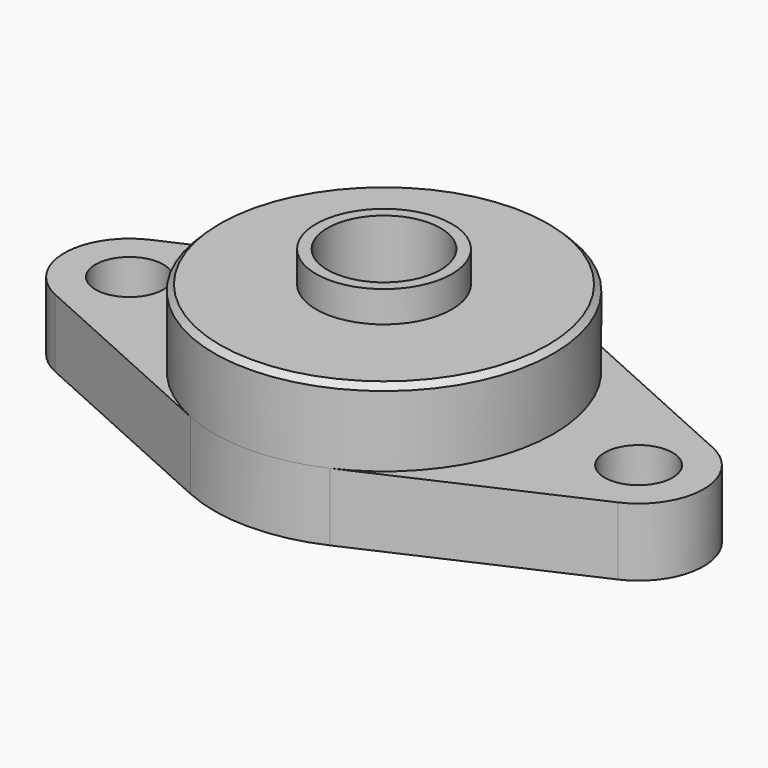
from build123d import *

# Parameters (mm, degrees)
F0_R     = 6
F0_R_2   = 10
F1_DEPTH = 6
F2_R     = 30
F2_R_2   = 10
F3_DEPTH = 13.5
F4_R     = 12
F4_R_2   = 10
F5_DEPTH = 5.5
F6_SIZE  = 1


with BuildPart() as f1:
    # F0 (on Top) → F1 (new body, symmetric)
    with BuildSketch(Plane.XY):
        with BuildLine():
            Line((-12.3333333333, 27.3475572746), (-49.7277777778, 10.4832302886))
            ThreePointArc((-49.7277777778, 10.4832302886), (-56.5, 0), (-49.7277777778, -10.4832302886))
            Line((-49.7277777778, -10.4832302886), (-12.3333333333, -27.3475572746))
            ThreePointArc((-12.3333333333, -27.3475572746), (0, -30), (12.3333333333, -27.3475572746))
            Line((12.3333333333, -27.3475572746), (49.7277777778, -10.4832302886))
            ThreePointArc((49.7277777778, -10.4832302886), (56.5, 0), (49.7277777778, 10.4832302886))
            Line((49.7277777778, 10.4832302886), (12.3333333333, 27.3475572746))
            ThreePointArc((12.3333333333, 27.3475572746), (0, 30), (-12.3333333333, 27.3475572746))
        make_face()
        with Locations((-45, 0)):
            Circle(F0_R, mode=Mode.SUBTRACT)
        Circle(F0_R_2, mode=Mode.SUBTRACT)
        with Locations((45, 0)):
            Circle(F0_R, mode=Mode.SUBTRACT)
    extrude(amount=F1_DEPTH, both=True)

    # F2 (on face) → F3 (join)
    with BuildSketch(Plane.XY.offset(6)):
        Circle(F2_R)
        Circle(F2_R_2, mode=Mode.SUBTRACT)
    extrude(amount=F3_DEPTH)

    # F4 (on face) → F5 (join)
    with BuildSketch(Plane.XY.offset(19.5)):
        Circle(F4_R)
        Circle(F4_R_2, mode=Mode.SUBTRACT)
    extrude(amount=F5_DEPTH)

    # F6
    f6_edges = [f1.edges().sort_by_distance(p)[0] for p in [
        (-30, 0, 19.5),
    ]]
    chamfer(f6_edges, length=F6_SIZE)


solid = f1.part
